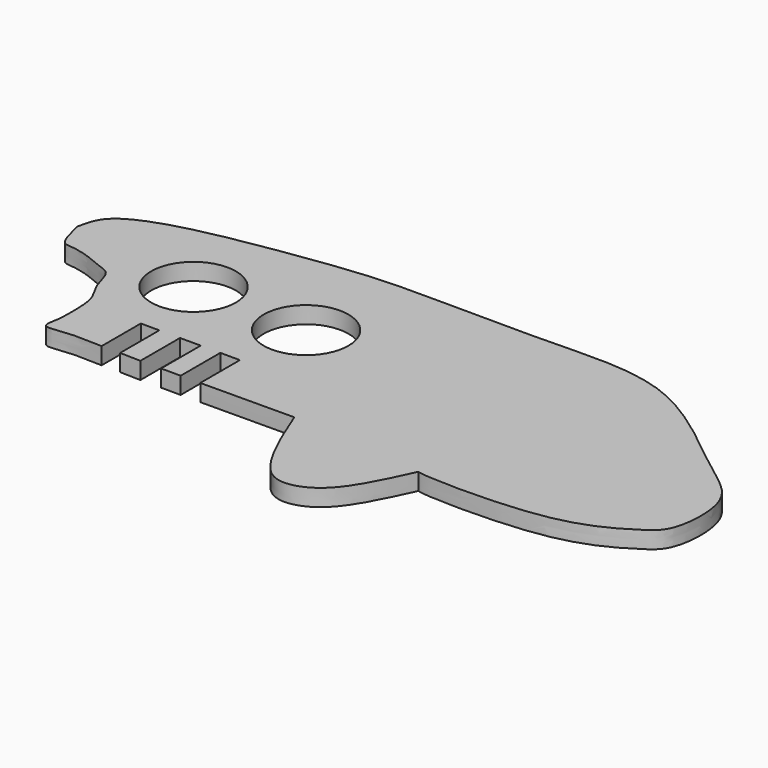
from build123d import *

# Parameters (mm, degrees)
F0_R     = 7.5
F1_DEPTH = 3


with BuildPart() as f1:
    # F0 (on Top) → F1 (new body)
    with BuildSketch(Plane.XY):
        with BuildLine():
            add(Edge.make_bspline(
                [(-65.4880683869, 18.9886800945), (-65.178328707, 20.4863137411), (-64.4568604441, 23.9747113233), (-56.1890248621, 27.6408200462), (-43.9770325451, 30.1132689675), (-25.541942405, 32.8664612468), (-12.9871202387, 32.9201169676), (8.3293054541, 32.5955779454), (29.2350200086, 33.9104399963), (47.2871039637, 17.34678007), (56.5602560146, 11.8774003268), (56.0627170325, -0.6330253094), (51.4723783082, -3.6585345131), (41.1517175992, -10.1305275115), (17.7052994365, -9.4100834489), (17.2414942273, -8.8249714472)],
                knots=[0, 0, 0, 0, 0.0446569276, 0.1040167839, 0.1796896711, 0.2691268217, 0.344294553, 0.4397079198, 0.5353677376, 0.6359846276, 0.7032882189, 0.7704399932, 0.815788529, 0.8931153741, 0.9909795803, 0.9909795803, 0.9909795803, 0.9909795803], degree=3))
            add(Edge.make_bspline(
                [(-65.4880683869, 18.9886800945), (-64.9887443765, 16.9190388512), (-64.2275412208, 13.7639383303), (-62.4007727151, 13.8784597713), (-58.8407313491, 13.141427483), (-56.2988388149, 11.7555250632), (-53.2534268679, 11.1375115301), (-52.726754087, 6.9684338179), (-50.3561054582, 3.9653258533), (-50.0775093303, 0.0279712077), (-50.1101063911, -2.5822991381), (-50.1960493273, -4.763693471), (-50.9687148363, -7.5553113136), (-46.3139390478, -6.5411648709), (-43.4670494025, -6.7646442196), (-40.4834784567, -6.8436353467)],
                knots=[0, 0, 0, 0, 0.0771287147, 0.117580208, 0.1819478724, 0.2416847556, 0.2971446379, 0.3630236009, 0.430272414, 0.4968571932, 0.5519359714, 0.6039546766, 0.6513589416, 0.7131546393, 0.8005637714, 0.8005637714, 0.8005637714, 0.8005637714], degree=3))
            Line((-40.4834784567, -6.8436353467), (-40.4834784567, 1.8313954351))
            Line((-40.4834784567, 1.8313954351), (-37.2039712965, 1.8313954351))
            Line((-37.2039712965, 1.8313954351), (-37.2039712965, -6.8436353467))
            Line((-37.2039712965, -6.8436353467), (-33.5427190013, -6.9361575375))
            Line((-33.5427190013, -6.9361575375), (-33.5427190013, 1.8313954351))
            Line((-33.5427190013, 1.8313954351), (-29.8787405088, 1.8313954351))
            Line((-29.8787405088, 1.8313954351), (-29.8787405088, -6.9361575375))
            Line((-29.8787405088, -6.9361575375), (-26.406536971, -6.9457450335))
            Line((-26.406536971, -6.9457450335), (-26.406536971, 1.8313954351))
            Line((-26.406536971, 1.8313954351), (-22.9370029695, 1.8313954351))
            Line((-22.9370029695, 1.8313954351), (-22.9370029695, -6.9367202748))
            add(Edge.make_bspline(
                [(-22.9370029695, -6.9367202748), (-17.7421873884, -6.9187277329), (-12.0519386363, -6.8811815398), (-6.3616898842, -6.8436353467)],
                knots=[0.9169050939, 0.9169050939, 0.9169050939, 0.9169050939, 1, 1, 1, 1], degree=3))
            add(Edge.make_bspline(
                [(-6.3616898842, -6.8436353467), (-5.3366402604, -9.4550523744), (-3.291846198, -14.6643709365), (1.1239822515, -22.7619652658), (6.2655535176, -23.3383897209), (12.0085753528, -20.1208572629), (15.289887485, -13.0377497163), (17.2414942273, -8.8249714472)],
                knots=[0, 0, 0, 0, 0.2119349298, 0.4227729819, 0.5713649912, 0.7450632736, 1, 1, 1, 1], degree=3))
        make_face()
        with Locations((-41.6382178664, 14.94033169)):
            Circle(F0_R, mode=Mode.SUBTRACT)
        with Locations((-21.3949177414, 14.5547734573)):
            Circle(F0_R, mode=Mode.SUBTRACT)
    extrude(amount=F1_DEPTH)


solid = f1.part
